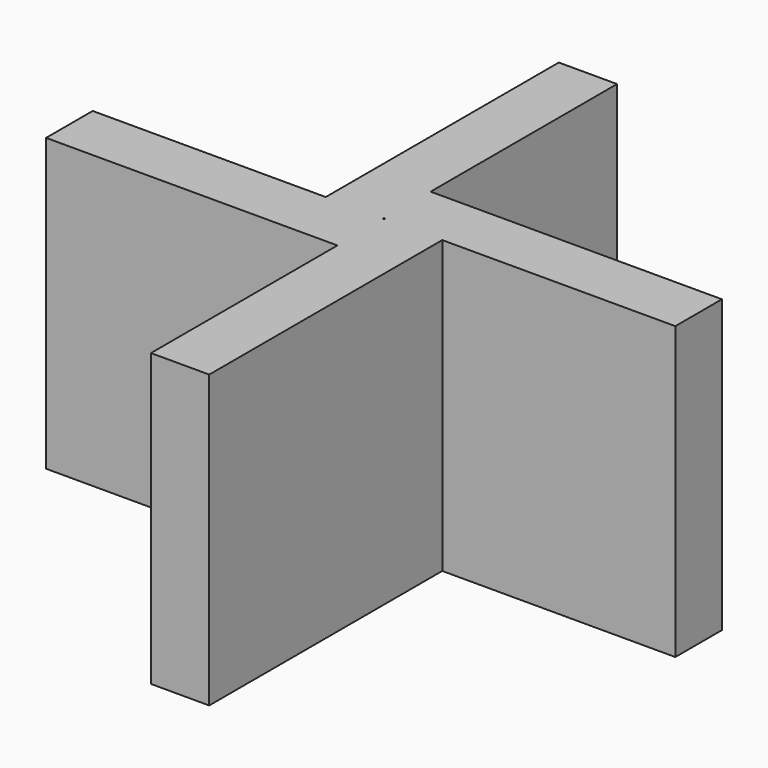
from build123d import *

# Parameters (mm, degrees)
SKETCH_W             = 20
SKETCH_H             = 20
PAD_DEPTH            = 10
SKETCH001_W          = 15
SKETCH001_H          = 15
POCKET_DEPTH         = 10.001
SKETCH002_R          = 0.025
POCKET001_DEPTH      = 0.001
POCKET001_DEPTH_BACK = 10.001


with BuildPart() as part:
    # Sketch → Pad (new body)
    with BuildSketch(Plane.XY):
        Rectangle(SKETCH_W, SKETCH_H)
    extrude(amount=PAD_DEPTH)

    # Sketch001 → Pocket (cut, through all)
    with BuildSketch(Plane.XY):
        with Locations((7.5, 9.5)):
            Rectangle(SKETCH001_W, SKETCH001_H)
        with Locations((-9.5, 7.5)):
            Rectangle(SKETCH001_W, SKETCH001_H)
        with Locations((9.5, -7.5)):
            Rectangle(SKETCH001_W, SKETCH001_H)
        with Locations((-7.5, -9.5)):
            Rectangle(SKETCH001_W, SKETCH001_H)
    extrude(amount=POCKET_DEPTH, mode=Mode.SUBTRACT)

    # Sketch002 → Pocket001 (cut, two sides)
    with BuildSketch(Plane.XY) as pocket001_sk:
        Circle(SKETCH002_R)
    extrude(amount=-POCKET001_DEPTH, mode=Mode.SUBTRACT)
    extrude(pocket001_sk.sketch, amount=POCKET001_DEPTH_BACK, mode=Mode.SUBTRACT)


solid = part.part
